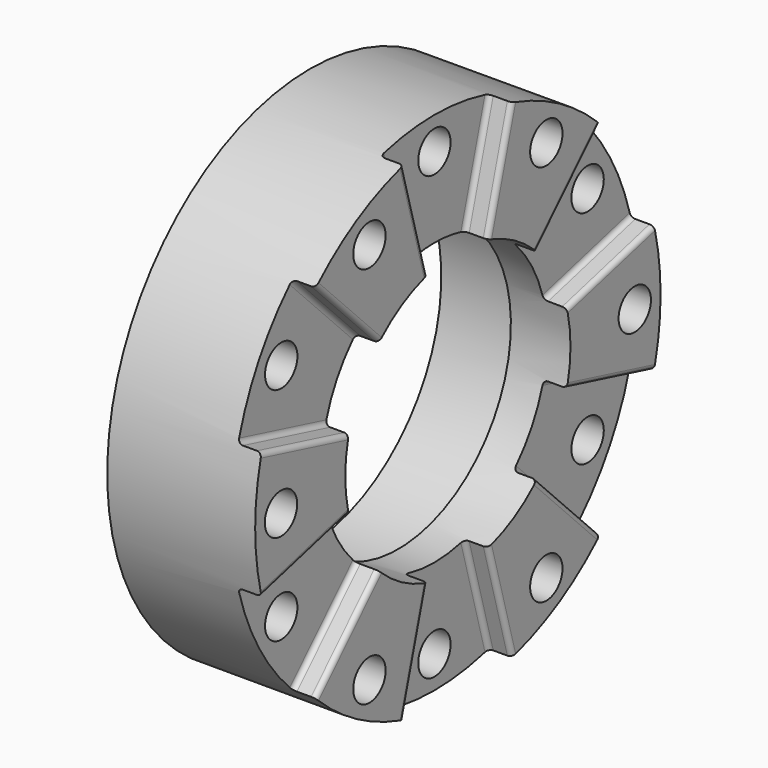
from build123d import *

# Parameters (mm, degrees)
F3_DEPTH       = 10
F5_D           = 10.5
F5_CBORE_D     = 17.25
F5_CBORE_DEPTH = 30
F7_D           = 10.5
F7_CBORE_D     = 17.25
F7_CBORE_DEPTH = 20
F8_R           = 2


with BuildPart() as f1:
    # F0 (on Front) → F1 (revolve)
    with BuildSketch(Plane.XZ):
        with BuildLine():
            Line((79.564, 60), (79.564, 108))
            Line((79.564, 108), (16.5, 108))
            Line((16.5, 108), (16.5, 80))
            Line((16.5, 80), (14.5, 80))
            Line((14.5, 80), (14.5, 72.5))
            Line((14.5, 72.5), (51.164, 72.5))
            ThreePointArc((51.164, 72.5), (53.28532, 71.62132), (54.164, 69.5))
            Line((54.164, 69.5), (54.164, 60))
            Line((54.164, 60), (79.564, 60))
        make_face()
    revolve(axis=Axis((43.768473, 0, 0), (1, 0, 0)))

    # F2 (on face) → F3 (cut)
    with BuildSketch(Plane.YZ.offset(79.564)):
        with BuildLine():
            Line((-28.861745, 104.072089), (-16.034303, 57.817827))
            ThreePointArc((-16.034303, 57.817827), (0, 60), (16.034303, 57.817827))
            Line((16.034303, 57.817827), (28.861745, 104.072089))
            ThreePointArc((28.861745, 104.072089), (0, 108), (-28.861745, 104.072089))
        make_face()
        with BuildLine():
            Line((-42.054556, 42.795027), (-75.698201, 77.031049))
            ThreePointArc((-75.698201, 77.031049), (-93.530744, 54), (-104.559945, 27.04104))
            Line((-104.559945, 27.04104), (-58.088858, 15.0228))
            ThreePointArc((-58.088858, 15.0228), (-51.961524, 30), (-42.054556, 42.795027))
        make_face()
        with BuildLine():
            Line((-58.088858, -15.0228), (-104.559945, -27.04104))
            ThreePointArc((-104.559945, -27.04104), (-93.530744, -54), (-75.698201, -77.031049))
            Line((-75.698201, -77.031049), (-42.054556, -42.795027))
            ThreePointArc((-42.054556, -42.795027), (-51.961524, -30), (-58.088858, -15.0228))
        make_face()
        with BuildLine():
            Line((-16.034303, -57.817827), (-28.861745, -104.072089))
            ThreePointArc((-28.861745, -104.072089), (0, -108), (28.861745, -104.072089))
            Line((28.861745, -104.072089), (16.034303, -57.817827))
            ThreePointArc((16.034303, -57.817827), (0, -60), (-16.034303, -57.817827))
        make_face()
        with BuildLine():
            Line((42.054556, -42.795027), (75.698201, -77.031049))
            ThreePointArc((75.698201, -77.031049), (93.530744, -54), (104.559945, -27.04104))
            Line((104.559945, -27.04104), (58.088858, -15.0228))
            ThreePointArc((58.088858, -15.0228), (51.961524, -30), (42.054556, -42.795027))
        make_face()
        with BuildLine():
            Line((58.088858, 15.0228), (104.559945, 27.04104))
            ThreePointArc((104.559945, 27.04104), (93.530744, 54), (75.698201, 77.031049))
            Line((75.698201, 77.031049), (42.054556, 42.795027))
            ThreePointArc((42.054556, 42.795027), (51.961524, 30), (58.088858, 15.0228))
        make_face()
    extrude(amount=-F3_DEPTH, mode=Mode.SUBTRACT)

    # F5 (through all)
    with Locations(Plane.YZ.offset(79.564)):
        with Locations((-47.125, 81.622894), (-94.25, 0), (-47.125, -81.622894), (47.125, 81.622894), (94.25, 0), (47.125, -81.622894)):
            CounterBoreHole(F5_D / 2, F5_CBORE_D / 2, F5_CBORE_DEPTH)

    # F7 (through all)
    with Locations(Plane.YZ.offset(69.564)):
        with Locations((0, 94.25), (-81.622894, 47.125), (-81.622894, -47.125), (0, -94.25), (81.622894, -47.125), (81.622894, 47.125)):
            CounterBoreHole(F7_D / 2, F7_CBORE_D / 2, F7_CBORE_DEPTH)

    # F8
    f8_edges = [f1.edges().sort_by_distance(p)[0] for p in [
        (79.564, 22.448024, 80.944958),
        (69.564, 22.448024, 80.944958),
        (79.564, -22.448024, 80.944958),
        (79.564, -58.876378, 59.913038),
        (69.564, -58.876378, 59.913038),
        (69.564, -81.324402, 21.03192),
        (79.564, -81.324402, 21.03192),
        (79.564, -81.324402, -21.03192),
        (69.564, -58.876378, -59.913038),
        (79.564, -58.876378, -59.913038),
        (79.564, -22.448024, -80.944958),
        (69.564, 22.448024, -80.944958),
        (79.564, 22.448024, -80.944958),
        (79.564, 58.876378, -59.913038),
        (79.564, 81.324402, -21.03192),
        (79.564, 81.324402, 21.03192),
        (69.564, 81.324402, 21.03192),
        (79.564, 58.876378, 59.913038),
        (69.564, 58.876378, 59.913038),
        (69.564, -22.448024, 80.944958),
        (69.564, -81.324402, -21.03192),
        (69.564, -22.448024, -80.944958),
        (69.564, 81.324402, -21.03192),
        (69.564, 58.876378, -59.913038),
    ]]
    fillet(f8_edges, radius=F8_R)


solid = f1.part
